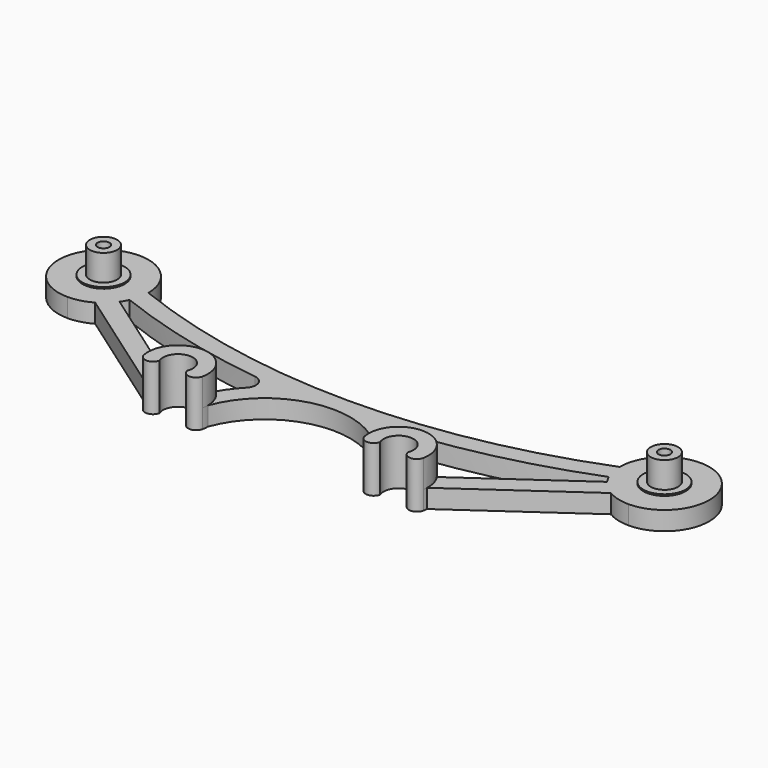
from build123d import *

# Parameters (mm, degrees)
F0_R     = 1.6
F1_DEPTH = 5
F2_R     = 5.65
F2_R_2   = 1.6
F3_DEPTH = 0.4
F4_R     = 3.65
F4_R_2   = 1.6
F5_DEPTH = 7
F7_DEPTH = 7.4


with BuildPart() as f1:
    # F0 (on Top) → F1 (new body)
    with BuildSketch(Plane.XY):
        with BuildLine():
            ThreePointArc((-37.3521878639, -1.5307337295), (-35.273852997, -3.2430337771), (-33.19551813, -1.5307337295))
            ThreePointArc((-33.19551813, -1.5307337295), (-29.5, 4), (-25.80448187, -1.5307337295))
            ThreePointArc((-25.80448187, -1.5307337295), (-23.726147003, -3.2430337771), (-21.6478121361, -1.5307337295))
            ThreePointArc((-21.6478121361, -1.5307337295), (-21.537038776, -0.7689268785), (-21.5, 0))
            ThreePointArc((-21.5, 0), (0, 15), (21.5, 0))
            ThreePointArc((21.5, 0), (21.537038776, -0.7689268785), (21.6478121361, -1.5307337295))
            ThreePointArc((21.6478121361, -1.5307337295), (23.726147003, -3.2430337771), (25.80448187, -1.5307337295))
            ThreePointArc((25.80448187, -1.5307337295), (29.5, 4), (33.19551813, -1.5307337295))
            ThreePointArc((33.19551813, -1.5307337295), (35.273852997, -3.2430337771), (37.3521878639, -1.5307337295))
            ThreePointArc((37.3521878639, -1.5307337295), (37.4352026436, -1.0161491059), (37.4845313984, -0.4972507899))
            Line((37.4845313984, -0.4972507899), (68.9534299936, 21.6347218485))
            ThreePointArc((68.9534299936, 21.6347218485), (71.8681744795, 20.4158872196), (75, 20))
            ThreePointArc((75, 20), (83.4852813742, 40.4852813742), (63, 32))
            ThreePointArc((63, 32), (0, 20), (-63, 32))
            ThreePointArc((-63, 32), (-83.4852813742, 40.4852813742), (-75, 20))
            ThreePointArc((-75, 20), (-71.8681744795, 20.4158872196), (-68.9534299936, 21.6347218485))
            Line((-68.9534299936, 21.6347218485), (-37.4845313984, -0.4972507899))
            ThreePointArc((-37.4845313984, -0.4972507899), (-37.4352026436, -1.0161491059), (-37.3521878639, -1.5307337295))
        make_face()
        with BuildLine():
            ThreePointArc((-65.1844431468, 25.0967512241), (-64.5810704237, 26.0463535136), (-64.0692832138, 27.0482901398))
            ThreePointArc((-64.0692832138, 27.0482901398), (-43.3702293382, 20.4154614181), (-22.0125035411, 16.3790277239))
            ThreePointArc((-22.0125035411, 16.3790277239), (-19.5611083836, 14.4098541759), (-20.2140176404, 11.3340303541))
            ThreePointArc((-20.2140176404, 11.3340303541), (-22.3670470232, 8.782690509), (-24.2000278476, 5.9925199361))
            ThreePointArc((-24.2000278476, 5.9925199361), (-30.4327318488, 7.9454396542), (-36.0437045688, 4.6021658506))
            Line((-36.0437045688, 4.6021658506), (-65.1844431468, 25.0967512241))
        make_face(mode=Mode.SUBTRACT)
        with BuildLine():
            ThreePointArc((20.2140176404, 11.3340303541), (19.5611083836, 14.4098541759), (22.0125035411, 16.3790277239))
            ThreePointArc((22.0125035411, 16.3790277239), (43.3702293382, 20.4154614181), (64.0692832138, 27.0482901398))
            ThreePointArc((64.0692832138, 27.0482901398), (64.5810704237, 26.0463535136), (65.1844431468, 25.0967512241))
            Line((65.1844431468, 25.0967512241), (36.0437045688, 4.6021658506))
            ThreePointArc((36.0437045688, 4.6021658506), (30.4327318488, 7.9454396542), (24.2000278476, 5.9925199361))
            ThreePointArc((24.2000278476, 5.9925199361), (22.3670470232, 8.782690509), (20.2140176404, 11.3340303541))
        make_face(mode=Mode.SUBTRACT)
        with Locations((-75, 32)):
            Circle(F0_R, mode=Mode.SUBTRACT)
        with Locations((75, 32)):
            Circle(F0_R, mode=Mode.SUBTRACT)
    extrude(amount=F1_DEPTH)

    # F2 (on face) → F3 (join)
    with BuildSketch(Plane.XY.offset(5)):
        with Locations((-75, 32)):
            Circle(F2_R)
        with Locations((-75, 32)):
            Circle(F2_R_2, mode=Mode.SUBTRACT)
        with Locations((75, 32)):
            Circle(F2_R)
        with Locations((75, 32)):
            Circle(F2_R_2, mode=Mode.SUBTRACT)
    extrude(amount=F3_DEPTH)

    # F4 (on face) → F5 (join)
    with BuildSketch(Plane.XY.offset(5.4)):
        with Locations((-75, 32)):
            Circle(F4_R)
        with Locations((-75, 32)):
            Circle(F4_R_2, mode=Mode.SUBTRACT)
        with Locations((75, 32)):
            Circle(F4_R)
        with Locations((75, 32)):
            Circle(F4_R_2, mode=Mode.SUBTRACT)
    extrude(amount=F5_DEPTH)

    # F6 (on face) → F7 (join, through all)
    with BuildSketch(Plane.XY.offset(5)):
        with BuildLine():
            ThreePointArc((-21.6478121361, -1.5307337295), (-29.5, 8), (-37.3521878639, -1.5307337295))
            ThreePointArc((-37.3521878639, -1.5307337295), (-35.273852997, -3.2430337771), (-33.19551813, -1.5307337295))
            ThreePointArc((-33.19551813, -1.5307337295), (-29.5, 4), (-25.80448187, -1.5307337295))
            ThreePointArc((-25.80448187, -1.5307337295), (-23.726147003, -3.2430337771), (-21.6478121361, -1.5307337295))
        make_face()
        with BuildLine():
            ThreePointArc((37.3521878639, -1.5307337295), (29.5, 8), (21.6478121361, -1.5307337295))
            ThreePointArc((21.6478121361, -1.5307337295), (23.726147003, -3.2430337771), (25.80448187, -1.5307337295))
            ThreePointArc((25.80448187, -1.5307337295), (29.5, 4), (33.19551813, -1.5307337295))
            ThreePointArc((33.19551813, -1.5307337295), (35.273852997, -3.2430337771), (37.3521878639, -1.5307337295))
        make_face()
    extrude(amount=F7_DEPTH)


solid = f1.part
